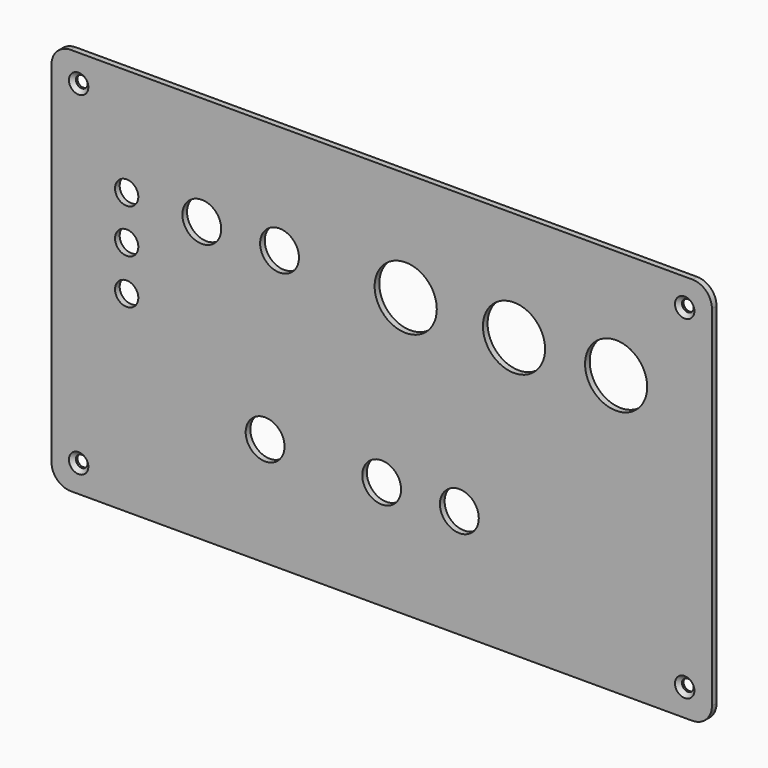
from build123d import *

# Parameters (mm, degrees)
F0_R     = 1.5
F0_R_2   = 3
F0_R_3   = 5
F0_R_4   = 8
F1_DEPTH = 1.5
F2_SIZE  = 1


with BuildPart() as f1:
    # F0 (on Front) → F1 (new body)
    with BuildSketch(Plane.XZ):
        with BuildLine():
            ThreePointArc((0, 5), (1.464466, 1.464466), (5, 0))
            Line((5, 0), (165, 0))
            ThreePointArc((165, 0), (168.535534, 1.464466), (170, 5))
            Line((170, 5), (170, 95))
            ThreePointArc((170, 95), (168.535534, 98.535534), (165, 100))
            Line((165, 100), (5, 100))
            ThreePointArc((5, 100), (1.464466, 98.535534), (0, 95))
            Line((0, 95), (0, 5))
        make_face()
        with Locations((7, 7)):
            Circle(F0_R, mode=Mode.SUBTRACT)
        with Locations((19.361107, 49.433604)):
            Circle(F0_R_2, mode=Mode.SUBTRACT)
        with Locations((55, 28)):
            Circle(F0_R_3, mode=Mode.SUBTRACT)
        with Locations((163, 7)):
            Circle(F0_R, mode=Mode.SUBTRACT)
        with Locations((85, 28)):
            Circle(F0_R_3, mode=Mode.SUBTRACT)
        with Locations((105, 28)):
            Circle(F0_R_3, mode=Mode.SUBTRACT)
        with Locations((19.361107, 60.992684)):
            Circle(F0_R_2, mode=Mode.SUBTRACT)
        with Locations((19.361107, 72.32511)):
            Circle(F0_R_2, mode=Mode.SUBTRACT)
        with Locations((38.706016, 72)):
            Circle(F0_R_3, mode=Mode.SUBTRACT)
        with Locations((58.706016, 72)):
            Circle(F0_R_3, mode=Mode.SUBTRACT)
        with Locations((7, 93)):
            Circle(F0_R, mode=Mode.SUBTRACT)
        with Locations((91.19039, 71.871817)):
            Circle(F0_R_4, mode=Mode.SUBTRACT)
        with Locations((119.061068, 71.871817)):
            Circle(F0_R_4, mode=Mode.SUBTRACT)
        with Locations((145.345598, 71.871817)):
            Circle(F0_R_4, mode=Mode.SUBTRACT)
        with Locations((163, 93)):
            Circle(F0_R, mode=Mode.SUBTRACT)
    extrude(amount=F1_DEPTH)

    # F2
    f2_edges = [f1.edges().sort_by_distance(p)[0] for p in [
        (161.5, -1.5, 93),
        (161.5, -1.5, 7),
        (5.5, -1.5, 93),
        (5.5, -1.5, 7),
    ]]
    chamfer(f2_edges, length=F2_SIZE)


solid = f1.part
